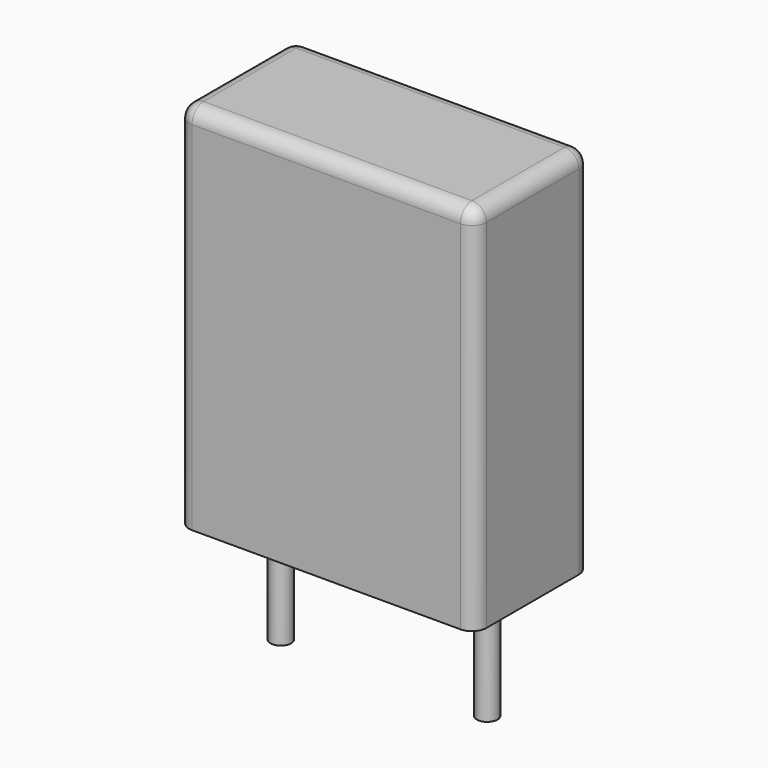
from build123d import *

# Parameters (mm, degrees)
SKETCH_W     = 7.2
SKETCH_H     = 3.5
PAD_DEPTH    = 9
FILLET_R     = 0.35
SKETCH001_R  = 0.25
PAD001_DEPTH = 3.2


with BuildPart() as fillet_body:
    # Sketch → Pad (new body)
    with BuildSketch(Plane.XY.offset(0.1)):
        with Locations((2.5, 0)):
            Rectangle(SKETCH_W, SKETCH_H)
    extrude(amount=PAD_DEPTH)

    # Fillet
    fillet_edges = [fillet_body.edges().sort_by_distance(p)[0] for p in [
        (-1.1, 0, 9.1),
        (-1.1, -1.75, 4.6),
        (2.5, -1.75, 9.1),
        (6.1, -1.75, 4.6),
        (6.1, 0, 9.1),
        (6.1, 1.75, 4.6),
        (2.5, 1.75, 9.1),
        (-1.1, 1.75, 4.6),
    ]]
    fillet(fillet_edges, radius=FILLET_R)


with BuildPart() as pad001:
    # Sketch001 → Pad001 (new body)
    with BuildSketch(Plane.XY.offset(0.5)):
        Circle(SKETCH001_R)
        with Locations((5, 0)):
            Circle(SKETCH001_R)
    extrude(amount=-PAD001_DEPTH)


solid = Compound([fillet_body.part, pad001.part])
